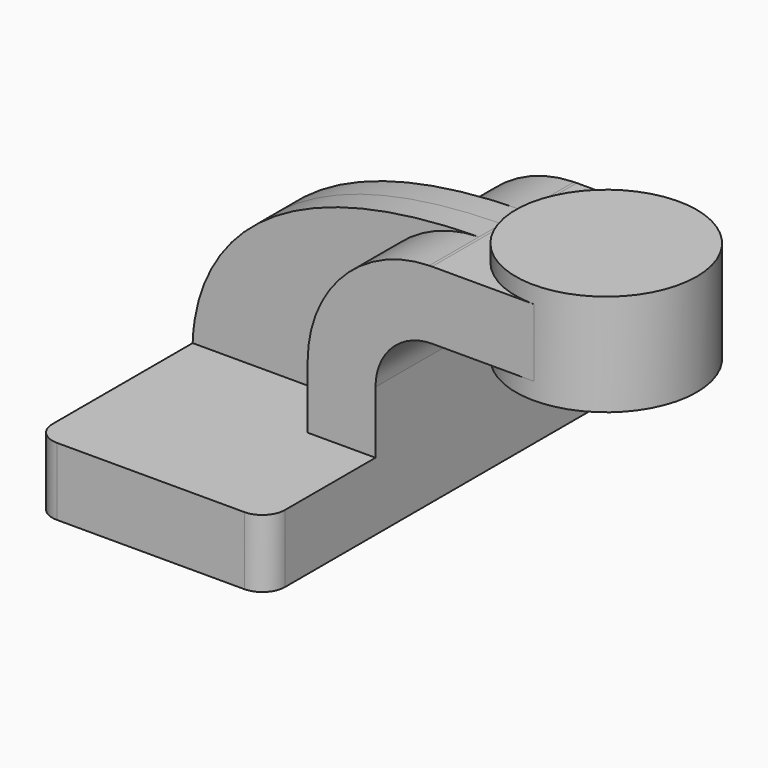
from build123d import *

# Parameters (mm, degrees)
F1_DEPTH = 63.5
F0_W     = 25.4
F0_H     = 19.05
F2_DEPTH = 25.4
F3_DEPTH = 7.9375
F5_R     = 6.35


with BuildPart() as f1:
    # F0 (on Front) → F1 (new body, symmetric)
    with BuildSketch(Plane.XZ):
        Polygon((-32.64679, -9.525), (32.64679, -9.525), (32.64679, 9.525), (13.59679, 9.525), (-32.64679, 9.525), align=None)
    extrude(amount=F1_DEPTH, both=True)

    # F0 (on Front) → F2 (join, symmetric)
    with BuildSketch(Plane.XZ):
        with BuildLine():
            Line((13.59679, 9.525), (32.64679, 9.525))
            Line((32.64679, 9.525), (32.64679, 27.0002))
            ThreePointArc((32.64679, 27.0002), (37.29647, 38.22552), (48.52179, 42.8752))
            Line((48.52179, 42.8752), (51.69679, 42.8752))
            Line((51.69679, 42.8752), (51.69679, 61.9252))
            Line((51.69679, 61.9252), (48.52179, 61.9252))
            add(Edge.make_bspline(
                [(48.52179, 61.9252), (48.261615, 61.922787), (48.002231, 61.919896), (47.743636, 61.91653)],
                knots=[0, 0, 0, 0, 0.388622, 0.388622, 0.388622, 0.388622], degree=3))
            ThreePointArc((47.743636, 61.91653), (23.552483, 51.419236), (13.59679, 27.0002))
            Line((13.59679, 27.0002), (13.59679, 9.525))
        make_face()
        with Locations((64.39679, 52.4002)):
            Rectangle(F0_W, F0_H)
    extrude(amount=F2_DEPTH, both=True)

    # F0 (on Front) → F3 (join, symmetric)
    with BuildSketch(Plane.XZ):
        with BuildLine():
            add(Edge.make_bspline(
                [(47.743636, 61.91653), (-16.285647, 61.082997), (-31.947843, 31.09346), (-32.64679, 9.525)],
                knots=[0.388622, 0.388622, 0.388622, 0.388622, 96.613246, 96.613246, 96.613246, 96.613246], degree=3))
            Line((-32.64679, 9.525), (13.59679, 9.525))
            Line((13.59679, 9.525), (13.59679, 27.0002))
            ThreePointArc((13.59679, 27.0002), (23.552483, 51.419236), (47.743636, 61.91653))
        make_face()
    extrude(amount=F3_DEPTH, both=True)

    # F5
    f5_edges = [f1.edges().sort_by_distance(p)[0] for p in [
        (-32.64679, -63.5, 0),
        (32.64679, -63.5, 0),
        (32.64679, 63.5, 0),
        (-32.64679, 63.5, 0),
    ]]
    fillet(f5_edges, radius=F5_R)


with BuildPart() as f4:
    # F0 (on Front) → F4 (revolve)
    with BuildSketch(Plane.XZ):
        Polygon((77.09679, 61.9252), (77.09679, 42.8752), (77.09679, 38.1), (102.49679, 38.1), (102.49679, 66.675), (77.09679, 66.675), align=None)
    revolve(axis=Axis((77.09679, 0, 52.4002), (0, 0, 1)))


solid = Compound([f1.part, f4.part])
